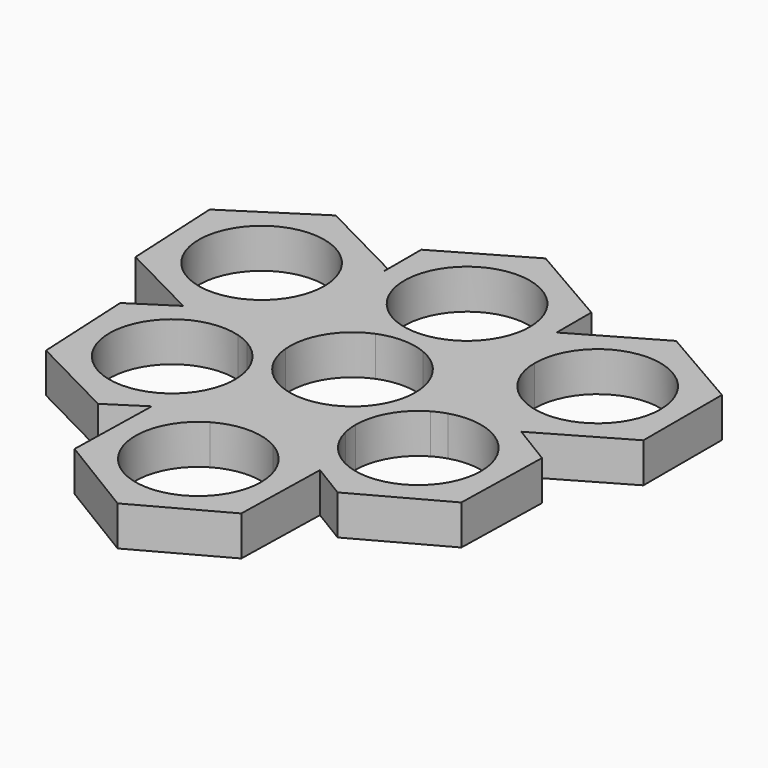
from build123d import *

# Parameters (mm, degrees)
F1_DEPTH = 7


with BuildPart() as f1:
    # F0 (on Top) → F1 (new body)
    with BuildSketch(Plane.XY):
        with BuildLine():
            Line((-18.5526829578, 17.017490387), (-14.9068294969, 17.0288079719))
            Line((-14.9068294969, 17.0288079719), (-14.9068294969, 25.39699213))
            Line((-14.9068294969, 25.39699213), (-14.9597222584, 26.4567236773))
            Line((-14.9597222584, 26.4567236773), (-30.4980650394, 34.4226977911))
            Line((-30.4980650394, 34.4226977911), (-45.1659723783, 24.949085267))
            Line((-45.1659723783, 24.949085267), (-44.2955369363, 7.5094986291))
            Line((-44.2955369363, 7.5094986291), (-30.0415552646, 0.2019722978))
            Line((-30.0415552646, 0.2019722978), (-22.6974101401, 4.9453609505))
            Line((-22.6974101401, 4.9453609505), (-22.598117295, 4.8944569227))
            Line((-22.598117295, 4.8944569227), (-24.0603829878, 7.4091156347))
            ThreePointArc((-24.0603829878, 7.4091156347), (-39.2360043497, 22.4908111831), (-18.5526829578, 17.017490387))
        make_face()
        with BuildLine():
            Line((-14.0892868164, 9.0171370394), (-14.4490557214, 16.2252775697))
            Line((-14.4490557214, 16.2252775697), (-14.9068294969, 16.4895733822))
            Line((-14.9068294969, 16.4895733822), (-14.9068294969, 17.0288079719))
            Line((-14.9068294969, 17.0288079719), (-18.5526829578, 17.017490387))
            ThreePointArc((-18.5526829578, 17.017490387), (-18.5526429375, 17.0003007908), (-18.5526295974, 16.9831111532))
            ThreePointArc((-18.5526295974, 16.9831111532), (-20.0278149845, 11.4605044861), (-24.0603829878, 7.4091156347))
            Line((-24.0603829878, 7.4091156347), (-22.598117295, 4.8944569227))
            Line((-22.598117295, 4.8944569227), (-21.4130490309, 4.2869131679))
            Line((-21.4130490309, 4.2869131679), (-14.0892868164, 9.0171370394))
        make_face()
        with BuildLine():
            Line((7.5450461038, 12.1316617283), (5.5951009003, 15.538147707))
            ThreePointArc((5.5951009003, 15.538147707), (0.0521421404, 14.074903417), (-5.4798231028, 15.5791760698))
            Line((-5.4798231028, 15.5791760698), (-7.4549538962, 12.1872309982))
            Line((-7.4549538962, 12.1872309982), (-4.1387329274, 10.2726099291))
            ThreePointArc((-4.1387329274, 10.2726099291), (0.0589181779, 11.0748432787), (4.2477961597, 10.2279935855))
            Line((4.2477961597, 10.2279935855), (7.5450461038, 12.1316617283))
        make_face()
        with BuildLine():
            ThreePointArc((7.6983976037, 17.0989799026), (6.6930526008, 16.2561678079), (5.5951009003, 15.538147707))
            Line((5.5951009003, 15.538147707), (7.5450461038, 12.1316617283))
            Line((7.5450461038, 12.1316617283), (14.5216204926, 16.1595888298))
            Line((14.5216204926, 16.1595888298), (14.5216204926, 17.1201607879))
            Line((14.5216204926, 17.1201607879), (7.6983976037, 17.0989799026))
        make_face()
        with BuildLine():
            Line((-7.4549538962, 12.1872309982), (-5.4798231028, 15.5791760698))
            ThreePointArc((-5.4798231028, 15.5791760698), (-6.5120499472, 16.2601318233), (-7.4619270677, 17.0519186964))
            Line((-7.4619270677, 17.0519186964), (-14.4892258089, 17.0301043117))
            Line((-14.4892258089, 17.0301043117), (-14.4490557214, 16.2252775697))
            Line((-14.4490557214, 16.2252775697), (-7.4549538962, 12.1872309982))
        make_face()
        with BuildLine():
            Line((22.0619456845, 4.1530614915), (18.4983583082, -2.0637409464))
            ThreePointArc((18.4983583082, -2.0637409464), (28.3225469356, -3.7536865399), (32.808804195, -12.6556017326))
            ThreePointArc((32.808804195, -12.6556017326), (23.0230169106, -23.6553088003), (10.9589521726, -15.2164978445))
            Line((10.9589521726, -15.2164978445), (7.5625985652, -21.1415551413))
            Line((7.5625985652, -21.1415551413), (15.2877535418, -25.8390431462))
            Line((15.2877535418, -25.8390431462), (15.2778985596, -26.2723747345))
            Line((15.2778985596, -26.2723747345), (21.3402892473, -29.9587742467))
            Line((21.3402892473, -29.9587742467), (36.5220336844, -21.6479819311))
            Line((36.5220336844, -21.6479819311), (36.915548632, -4.344809417))
            Line((36.915548632, -4.344809417), (29.7789547231, -0.0052117798))
            Line((29.7789547231, -0.0052117798), (29.5216204926, -0.153783767))
            Line((29.5216204926, -0.153783767), (22.0619456845, 4.1530614915))
        make_face()
        with BuildLine():
            Line((16.2318737978, -3.0439220196), (14.28616406, 0.3551647489))
            Line((14.28616406, 0.3551647489), (10.978973026, -1.4552581538))
            ThreePointArc((10.978973026, -1.4552581538), (9.6167137365, -5.4931267881), (6.8306240676, -8.7176946407))
            Line((6.8306240676, -8.7176946407), (6.7423298318, -12.600064047))
            Line((6.7423298318, -12.600064047), (10.6588801919, -12.6145733699))
            ThreePointArc((10.6588801919, -12.6145733699), (12.1631528447, -7.0826081267), (16.2318737978, -3.0439220196))
        make_face()
        with BuildLine():
            Line((21.6541090723, 4.3885260694), (14.28616406, 0.3551647489))
            Line((14.28616406, 0.3551647489), (16.2318737978, -3.0439220196))
            ThreePointArc((16.2318737978, -3.0439220196), (17.3377122014, -2.4904652267), (18.4983583082, -2.0637409464))
            Line((18.4983583082, -2.0637409464), (22.0619456845, 4.1530614915))
            Line((22.0619456845, 4.1530614915), (21.6541090723, 4.3885260694))
        make_face()
        with BuildLine():
            Line((6.5520597579, -20.9663940482), (6.5619147401, -20.53306246))
            Line((6.5619147401, -20.53306246), (0.4995240524, -16.8466629478))
            Line((0.4995240524, -16.8466629478), (-7.3290866708, -21.1322019456))
            Line((-7.3290866708, -21.1322019456), (-7.4269476123, -21.1954077335))
            Line((-7.4269476123, -21.1954077335), (-5.4612375049, -24.5758399433))
            ThreePointArc((-5.4612375049, -24.5758399434), (0.0716298709, -23.0748888223), (5.6137091346, -24.5414607095))
            Line((5.6137091346, -24.5414607095), (7.3758596449, -21.4673276993))
            Line((7.3758596449, -21.4673276993), (6.5520597579, -20.9663940482))
        make_face()
        with BuildLine():
            Line((-6.6834253252, -12.5503267529), (-10.7520506951, -12.5352540501))
            ThreePointArc((-10.7520506951, -12.5352540501), (-10.8256622543, -13.7696665966), (-11.0364312406, -14.98817775))
            Line((-11.0364312406, -14.98817775), (-7.4311973822, -21.1880994032))
            Line((-7.4311973822, -21.1880994032), (-7.3290866708, -21.1322019456))
            Line((-7.3290866708, -21.1322019456), (-6.2886319172, -20.4601998012))
            Line((-6.2886319172, -20.4601998012), (-6.6834253252, -12.5503267529))
        make_face()
        with BuildLine():
            ThreePointArc((-11.0364312406, -14.98817775), (-31.4009702166, -18.061472297), (-18.6573497763, -1.8824820581))
            Line((-18.6573497763, -1.8824820581), (-22.017730434, 3.8963654789))
            Line((-22.017730434, 3.8963654789), (-28.7571941554, -0.4564754847))
            Line((-28.7571941554, -0.4564754847), (-30.0415552646, 0.2019722978))
            Line((-30.0415552646, 0.2019722978), (-37.3653174791, -4.5282515736))
            Line((-37.3653174791, -4.5282515736), (-36.4948820371, -21.9678382115))
            Line((-36.4948820371, -21.9678382115), (-20.9565392561, -29.9338123253))
            Line((-20.9565392561, -29.9338123253), (-14.6989299478, -25.8921883538))
            Line((-14.6989299478, -25.8921883538), (-14.6822203847, -25.1574552634))
            Line((-14.6822203847, -25.1574552634), (-7.4311973822, -21.1880994032))
            Line((-7.4311973822, -21.1880994032), (-11.0364312406, -14.98817775))
        make_face()
        with BuildLine():
            Line((-11.0262455027, -1.0380438881), (-14.2066150638, 0.5924222403))
            Line((-14.2066150638, 0.5924222403), (-16.2539810922, -2.9235743371))
            ThreePointArc((-16.2539810922, -2.9235743371), (-12.2255026968, -6.9745010197), (-10.7519746981, -12.4942256874))
            ThreePointArc((-10.7519746981, -12.4942256874), (-10.7519936974, -12.514739904), (-10.7520506951, -12.5352540501))
            Line((-10.7520506951, -12.5352540501), (-6.6834253252, -12.5503267529))
            Line((-6.6834253252, -12.5503267529), (-6.8765223734, -8.6815358692))
            ThreePointArc((-6.8765223734, -8.6815358692), (-9.7330887607, -5.2841847221), (-11.0262455027, -1.0380438881))
        make_face()
        with BuildLine():
            Line((-16.2539810922, -2.9235743371), (-14.2066150638, 0.5924222403))
            Line((-14.2066150638, 0.5924222403), (-21.4130490309, 4.2869131679))
            Line((-21.4130490309, 4.2869131679), (-22.017730434, 3.8963654789))
            Line((-22.017730434, 3.8963654789), (-18.6573497763, -1.8824820581))
            ThreePointArc((-18.6573497763, -1.8824820581), (-17.4247805902, -2.3317303228), (-16.2539810922, -2.9235743371))
        make_face()
        Polygon((-22.017730434, 3.8963654789), (-22.598117295, 4.8944569227), (-22.6974101401, 4.9453609505), (-30.0415552646, 0.2019722978), (-28.7571941554, -0.4564754847), align=None)
        Polygon((6.5619147401, -20.53306246), (6.7423298318, -12.600064047), (-6.6834253252, -12.5503267529), (-6.2886319172, -20.4601998012), (-7.3290866708, -21.1322019456), (0.4995240524, -16.8466629478), align=None)
        with BuildLine():
            Line((6.7423298318, -12.600064047), (6.8306240676, -8.7176946407))
            ThreePointArc((6.8306240676, -8.7176946407), (-0.0292151983, -11.0749614659), (-6.8765223734, -8.6815358692))
            Line((-6.8765223734, -8.6815358692), (-6.6834253252, -12.5503267529))
            Line((-6.6834253252, -12.5503267529), (6.7423298318, -12.600064047))
        make_face()
        with BuildLine():
            Line((14.28616406, 0.3551647489), (7.5450461038, 12.1316617283))
            Line((7.5450461038, 12.1316617283), (4.2477961597, 10.2279935855))
            ThreePointArc((4.2477961597, 10.2279935855), (9.2114050901, 6.1486292184), (11.075, 0))
            ThreePointArc((11.075, 0), (11.0509671808, -0.7292114703), (10.978973026, -1.4552581538))
            Line((10.978973026, -1.4552581538), (14.28616406, 0.3551647489))
        make_face()
        Polygon((14.5216204926, 16.1595888298), (7.5450461038, 12.1316617283), (14.28616406, 0.3551647489), (21.6541090723, 4.3885260694), (14.5216204926, 8.5064702708), align=None)
        with BuildLine():
            ThreePointArc((11.1681705031, 25.14982742), (10.2638026157, 20.7664648488), (7.6983976037, 17.0989799026))
            Line((7.6983976037, 17.0989799026), (14.5216204926, 17.1201607879))
            Line((14.5216204926, 17.1201607879), (14.5216204926, 25.8269783465))
            Line((14.5216204926, 25.8269783465), (15.0931705031, 26.1569628989))
            Line((15.0931705031, 26.1569628989), (15.0931705031, 33.8100814579))
            Line((15.0931705031, 33.8100814579), (0.0931705031, 42.4703354957))
            Line((0.0931705031, 42.4703354957), (-14.9068294969, 33.8100814579))
            Line((-14.9068294969, 33.8100814579), (-14.9068294969, 25.39699213))
            Line((-14.9068294969, 25.39699213), (-14.4892258089, 17.0301043117))
            Line((-14.4892258089, 17.0301043117), (-7.4619270677, 17.0519186964))
            ThreePointArc((-7.4619270677, 17.0519186964), (-4.3217428258, 35.3068036088), (11.1681705031, 25.14982742))
        make_face()
        with BuildLine():
            Line((15.0931705031, 26.1569628989), (15.0931705031, 17.1219350133))
            Line((15.0931705031, 17.1219350133), (18.4466738531, 17.1323450748))
            ThreePointArc((18.4466738531, 17.1323450748), (29.504430855, 28.2417109685), (40.5966204926, 17.1667243086))
            ThreePointArc((40.5966204926, 17.1667243086), (35.0740004854, 7.5840993334), (24.0139204627, 7.5583495563))
            Line((24.0139204627, 7.5583495563), (22.2890385659, 4.5492329418))
            Line((22.2890385659, 4.5492329418), (29.7789547231, -0.0052117798))
            Line((29.7789547231, -0.0052117798), (44.5216204926, 8.5064702708))
            Line((44.5216204926, 8.5064702708), (44.5216204926, 25.8269783465))
            Line((44.5216204926, 25.8269783465), (29.5216204926, 34.4872323843))
            Line((29.5216204926, 34.4872323843), (15.0931705031, 26.1569628989))
        make_face()
        Polygon((-14.2066150638, 0.5924222403), (-7.4549538962, 12.1872309982), (-14.4490557214, 16.2252775697), (-14.0892868164, 9.0171370394), (-21.4130490309, 4.2869131679), align=None)
        with BuildLine():
            Line((-4.1387329274, 10.2726099291), (-7.4549538962, 12.1872309982))
            Line((-7.4549538962, 12.1872309982), (-14.2066150638, 0.5924222403))
            Line((-14.2066150638, 0.5924222403), (-11.0262455027, -1.0380438881))
            ThreePointArc((-11.0262455027, -1.0380438881), (-9.4592211698, 5.7601006815), (-4.1387329274, 10.2726099291))
        make_face()
        Polygon((-22.017730434, 3.8963654789), (-21.4130490309, 4.2869131679), (-22.598117295, 4.8944569227), align=None)
        Polygon((-14.4490557214, 16.2252775697), (-14.4892258089, 17.0301043117), (-14.9068294969, 17.0288079719), (-14.9068294969, 16.4895733822), align=None)
        Polygon((-14.9068294969, 17.0288079719), (-14.4892258089, 17.0301043117), (-14.9068294969, 25.39699213), align=None)
        Polygon((14.5216204926, 25.8269783465), (14.5216204926, 17.1201607879), (15.0931705031, 17.1219350133), (15.0931705031, 26.1569628989), align=None)
        Polygon((15.0931705031, 17.1219350133), (14.5216204926, 17.1201607879), (14.5216204926, 16.1595888298), (15.0931705031, 16.4895733822), align=None)
        with BuildLine():
            Line((15.0931705031, 16.4895733822), (14.5216204926, 16.1595888298))
            Line((14.5216204926, 16.1595888298), (14.5216204926, 8.5064702708))
            Line((14.5216204926, 8.5064702708), (21.6541090723, 4.3885260694))
            Line((21.6541090723, 4.3885260694), (22.1273191426, 4.6475707814))
            Line((22.1273191426, 4.6475707814), (22.2890385659, 4.5492329418))
            Line((22.2890385659, 4.5492329418), (24.0139204627, 7.5583495563))
            ThreePointArc((24.0139204627, 7.5583495563), (19.9476249742, 11.599477699), (18.4466738531, 17.1323450748))
            Line((18.4466738531, 17.1323450748), (15.0931705031, 17.1219350133))
            Line((15.0931705031, 17.1219350133), (15.0931705031, 16.4895733822))
        make_face()
        Polygon((22.2890385659, 4.5492329418), (22.0619456845, 4.1530614915), (29.5216204926, -0.153783767), (29.7789547231, -0.0052117798), align=None)
        Polygon((22.1273191426, 4.6475707814), (21.6541090723, 4.3885260694), (22.0619456845, 4.1530614915), (22.2890385659, 4.5492329418), align=None)
        Polygon((-7.4269476123, -21.1954077335), (-7.4311973822, -21.1880994032), (-14.6822203847, -25.1574552634), (-14.6989299478, -25.8921883538), align=None)
        with BuildLine():
            Line((15.2778985596, -26.2723747345), (7.3758596449, -21.4673276993))
            Line((7.3758596449, -21.4673276993), (5.6137091346, -24.5414607095))
            ThreePointArc((5.6137091346, -24.5414607095), (9.6886340799, -28.597455469), (11.1810091047, -34.1498354618))
            ThreePointArc((11.1810091047, -34.1498354618), (-5.4165975624, -43.7496500747), (-5.4612375049, -24.5758399434))
            Line((-5.4612375049, -24.5758399433), (-7.4269476123, -21.1954077335))
            Line((-7.4269476123, -21.1954077335), (-14.6989299478, -25.8921883538))
            Line((-14.6989299478, -25.8921883538), (-15.0757353323, -42.4606277774))
            Line((-15.0757353323, -42.4606277774), (-0.2875058429, -51.4530079759))
            Line((-0.2875058429, -51.4530079759), (14.8942385941, -43.1422156603))
            Line((14.8942385941, -43.1422156603), (15.2778985596, -26.2723747345))
        make_face()
        Polygon((15.2877535418, -25.8390431462), (7.5625985652, -21.1415551413), (7.3758596449, -21.4673276993), (15.2778985596, -26.2723747345), align=None)
        Polygon((7.5625985652, -21.1415551413), (6.5619147401, -20.53306246), (6.5520597579, -20.9663940482), (7.3758596449, -21.4673276993), align=None)
        with BuildLine():
            ThreePointArc((10.9589521726, -15.2164978445), (10.7317279894, -13.9244374851), (10.6588801919, -12.6145733699))
            Line((10.6588801919, -12.6145733699), (6.7423298318, -12.600064047))
            Line((6.7423298318, -12.600064047), (6.5619147401, -20.53306246))
            Line((6.5619147401, -20.53306246), (7.5625985652, -21.1415551413))
            Line((7.5625985652, -21.1415551413), (10.9589521726, -15.2164978445))
        make_face()
    extrude(amount=F1_DEPTH)


solid = f1.part
